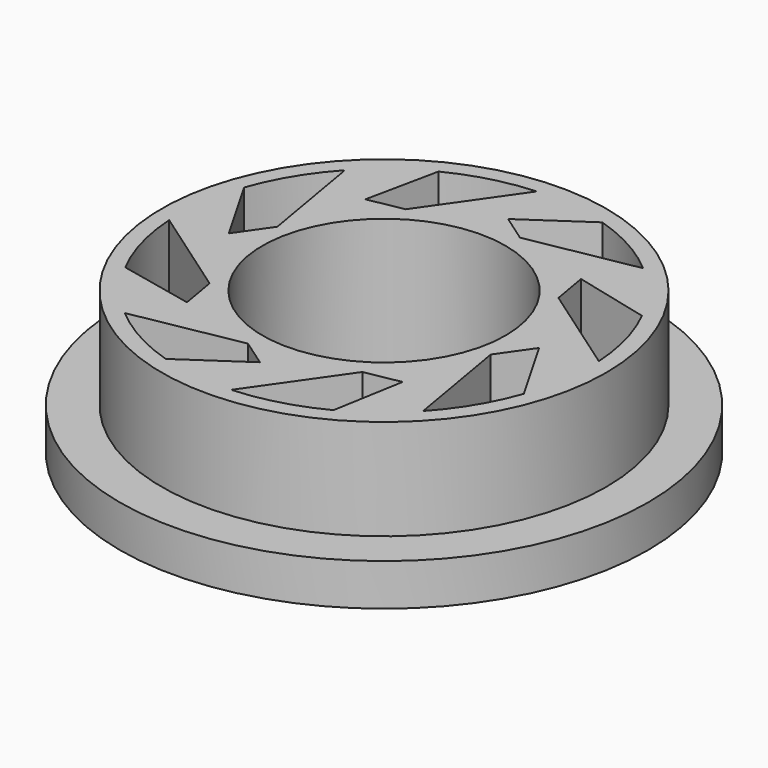
from build123d import *

# Parameters (mm, degrees)
F0_R     = 26.5
F0_R_2   = 14.5
F1_DEPTH = 17
F0_R_3   = 31.5
F2_DEPTH = 5
F3_DEPTH = 17


with BuildPart() as f1:
    # F0 (on Top) → F1 (new body)
    with BuildSketch(Plane.XY):
        Circle(F0_R)
        with BuildLine():
            Line((-3.216465, -16.254543), (0, -18.5))
            Line((0, -18.5), (-7.269078, -23.451694))
            ThreePointArc((-7.269078, -23.451694), (-11.892593, -21.479937), (-16.01768, -18.607939))
            Line((-16.01768, -18.607939), (-3.216465, -16.254543))
        make_face(mode=Mode.SUBTRACT)
        with BuildLine():
            Line((-13.598169, -9.006938), (-12.86031, -13.298963))
            Line((-12.86031, -13.298963), (-21.752187, -11.387001))
            ThreePointArc((-21.752187, -11.387001), (-23.666893, -6.534493), (-24.513214, -1.387001))
            Line((-24.513214, -1.387001), (-13.598169, -9.006938))
        make_face(mode=Mode.SUBTRACT)
        with BuildLine():
            Line((8.679206, -14.067624), (12.86031, -13.298963))
            Line((12.86031, -13.298963), (11.387001, -21.752187))
            ThreePointArc((11.387001, -21.752187), (6.534493, -23.666893), (1.387001, -24.513214))
            Line((1.387001, -24.513214), (8.679206, -14.067624))
        make_face(mode=Mode.SUBTRACT)
        with BuildLine():
            Line((15.809209, -3.854376), (18.5, 0))
            Line((18.5, 0), (23.172504, -8.115203))
            ThreePointArc((23.172504, -8.115203), (21.034287, -12.664131), (18.014507, -16.682295))
            Line((18.014507, -16.682295), (15.809209, -3.854376))
        make_face(mode=Mode.SUBTRACT)
        with BuildLine():
            Line((-15.809209, 3.854376), (-18.5, 0))
            Line((-18.5, 0), (-23.172504, 8.115203))
            ThreePointArc((-23.172504, 8.115203), (-21.034287, 12.664131), (-18.014507, 16.682295))
            Line((-18.014507, 16.682295), (-15.809209, 3.854376))
        make_face(mode=Mode.SUBTRACT)
        with BuildLine():
            Line((-8.679206, 14.067624), (-12.86031, 13.298963))
            Line((-12.86031, 13.298963), (-11.04677, 21.926931))
            ThreePointArc((-11.04677, 21.926931), (-6.349952, 23.717073), (-1.387001, 24.513214))
            Line((-1.387001, 24.513214), (-8.679206, 14.067624))
        make_face(mode=Mode.SUBTRACT)
        Circle(F0_R_2, mode=Mode.SUBTRACT)
        with BuildLine():
            Line((13.598169, 9.006938), (12.86031, 13.298963))
            Line((12.86031, 13.298963), (21.926931, 11.04677))
            ThreePointArc((21.926931, 11.04677), (23.717073, 6.349952), (24.513214, 1.387001))
            Line((24.513214, 1.387001), (13.598169, 9.006938))
        make_face(mode=Mode.SUBTRACT)
        with BuildLine():
            Line((3.216465, 16.254543), (0, 18.5))
            Line((0, 18.5), (7.269078, 23.451694))
            ThreePointArc((7.269078, 23.451694), (11.892593, 21.479937), (16.01768, 18.607939))
            Line((16.01768, 18.607939), (3.216465, 16.254543))
        make_face(mode=Mode.SUBTRACT)
    extrude(amount=F1_DEPTH)

    # F0 (on Top) → F2 (join)
    with BuildSketch(Plane.XY):
        Circle(F0_R_3)
        Circle(F0_R, mode=Mode.SUBTRACT)
    extrude(amount=F2_DEPTH)

    # F0 (on Top) → F3 (cut)
    with BuildSketch(Plane.XY):
        with BuildLine():
            Line((23.172504, -8.115203), (18.5, 0))
            Line((18.5, 0), (15.809209, -3.854376))
            Line((15.809209, -3.854376), (18.014507, -16.682295))
            ThreePointArc((18.014507, -16.682295), (21.034287, -12.664131), (23.172504, -8.115203))
        make_face()
        with BuildLine():
            Line((11.387001, -21.752187), (12.86031, -13.298963))
            Line((12.86031, -13.298963), (8.679206, -14.067624))
            Line((8.679206, -14.067624), (1.387001, -24.513214))
            ThreePointArc((1.387001, -24.513214), (6.534493, -23.666893), (11.387001, -21.752187))
        make_face()
        with BuildLine():
            Line((-7.269078, -23.451694), (0, -18.5))
            Line((0, -18.5), (-3.216465, -16.254543))
            Line((-3.216465, -16.254543), (-16.01768, -18.607939))
            ThreePointArc((-16.01768, -18.607939), (-11.892593, -21.479937), (-7.269078, -23.451694))
        make_face()
        with BuildLine():
            Line((-21.752187, -11.387001), (-12.86031, -13.298963))
            Line((-12.86031, -13.298963), (-13.598169, -9.006938))
            Line((-13.598169, -9.006938), (-24.513214, -1.387001))
            ThreePointArc((-24.513214, -1.387001), (-23.666893, -6.534493), (-21.752187, -11.387001))
        make_face()
        with BuildLine():
            Line((-23.172504, 8.115203), (-18.5, 0))
            Line((-18.5, 0), (-15.809209, 3.854376))
            Line((-15.809209, 3.854376), (-18.014507, 16.682295))
            ThreePointArc((-18.014507, 16.682295), (-21.034287, 12.664131), (-23.172504, 8.115203))
        make_face()
        with BuildLine():
            Line((-11.04677, 21.926931), (-12.86031, 13.298963))
            Line((-12.86031, 13.298963), (-8.679206, 14.067624))
            Line((-8.679206, 14.067624), (-1.387001, 24.513214))
            ThreePointArc((-1.387001, 24.513214), (-6.349952, 23.717073), (-11.04677, 21.926931))
        make_face()
        with BuildLine():
            Line((7.269078, 23.451694), (0, 18.5))
            Line((0, 18.5), (3.216465, 16.254543))
            Line((3.216465, 16.254543), (16.01768, 18.607939))
            ThreePointArc((16.01768, 18.607939), (11.892593, 21.479937), (7.269078, 23.451694))
        make_face()
        with BuildLine():
            Line((21.926931, 11.04677), (12.86031, 13.298963))
            Line((12.86031, 13.298963), (13.598169, 9.006938))
            Line((13.598169, 9.006938), (24.513214, 1.387001))
            ThreePointArc((24.513214, 1.387001), (23.717073, 6.349952), (21.926931, 11.04677))
        make_face()
    extrude(amount=F3_DEPTH, mode=Mode.SUBTRACT)


solid = f1.part
